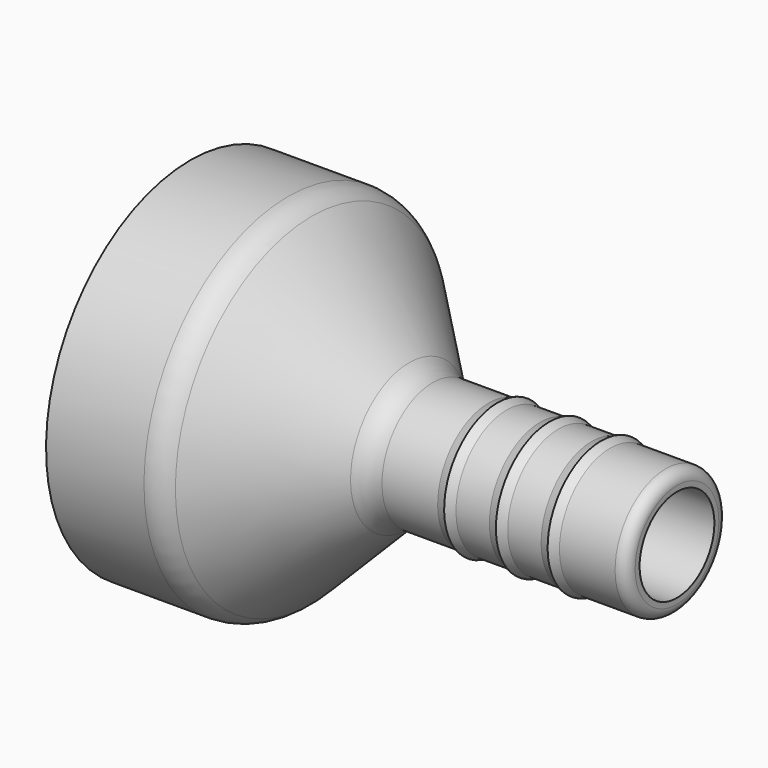
from build123d import *


with BuildPart() as f1:
    # F0 (on Front) → F1 (revolve)
    with BuildSketch(Plane.XZ):
        with BuildLine():
            Line((0, 16.2), (0, 13))
            Line((0, 13), (9, 13))
            Line((9, 13), (16.92132, 5.07868))
            ThreePointArc((16.92132, 5.07868), (17.89459, 4.428361), (19.042641, 4.2))
            Line((19.042641, 4.2), (43.730741, 4.2))
            Line((43.730741, 4.2), (43.730741, 4.7))
            ThreePointArc((43.730741, 4.7), (43.437848, 5.407107), (42.730741, 5.7))
            Line((42.730741, 5.7), (37.730741, 5.7))
            Line((37.730741, 5.7), (36.906498, 6))
            Line((36.906498, 6), (36.082254, 5.7))
            Line((36.082254, 5.7), (33.082254, 5.7))
            Line((33.082254, 5.7), (32.258011, 6))
            Line((32.258011, 6), (31.433768, 5.7))
            Line((31.433768, 5.7), (28.433768, 5.7))
            Line((28.433768, 5.7), (27.609525, 6))
            Line((27.609525, 6), (26.785281, 5.7))
            Line((26.785281, 5.7), (21.785281, 5.7))
            ThreePointArc((21.785281, 5.7), (20.637231, 5.928361), (19.663961, 6.57868))
            Line((19.663961, 6.57868), (10.92132, 15.32132))
            ThreePointArc((10.92132, 15.32132), (9.94805, 15.971639), (8.8, 16.2))
            Line((8.8, 16.2), (0, 16.2))
        make_face()
    revolve(axis=Axis((21.86537, 0, 0), (1, 0, 0)))


solid = f1.part
